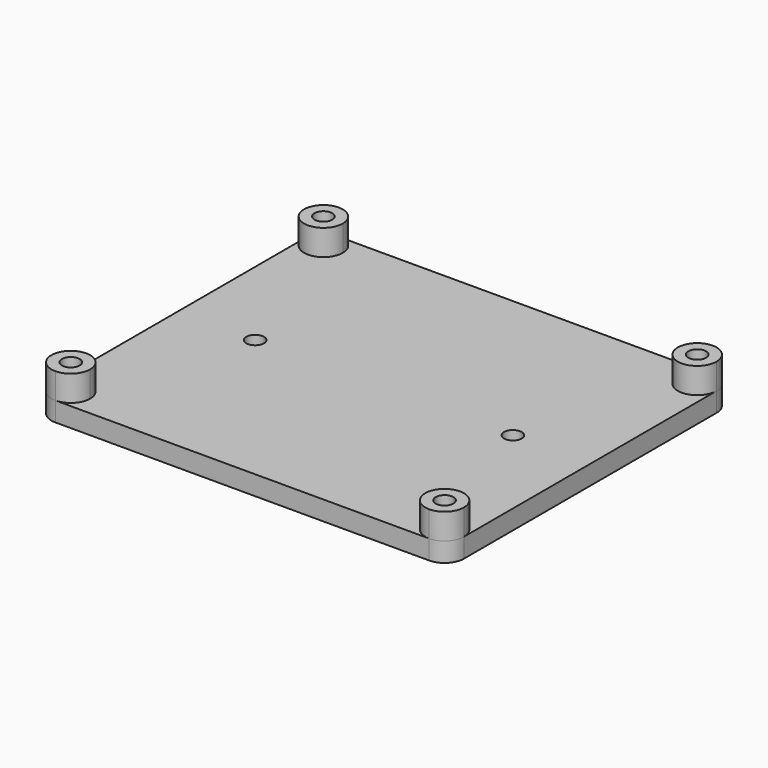
from build123d import *

# Parameters (mm, degrees)
F0_R     = 1.375
F1_DEPTH = 3
F2_DEPTH = 4


with BuildPart() as f1:
    # F0 (on Top) → F1 (new body)
    with BuildSketch(Plane.XY):
        with BuildLine():
            ThreePointArc((-29.799998, 24.5), (-30.678677, 26.62132), (-32.799998, 27.5))
            ThreePointArc((-32.799998, 27.5), (-34.921318, 26.62132), (-35.799998, 24.5))
            ThreePointArc((-35.799998, 24.5), (-32.799998, 21.5), (-29.799998, 24.5))
        make_face()
        with Locations((-32.799998, 24.5)):
            Circle(F0_R, mode=Mode.SUBTRACT)
        with BuildLine():
            Line((25.200002, 27.5), (-32.799998, 27.5))
            ThreePointArc((-32.799998, 27.5), (-30.678677, 26.62132), (-29.799998, 24.5))
            ThreePointArc((-29.799998, 24.5), (-32.799998, 21.5), (-35.799998, 24.5))
            Line((-35.799998, 24.5), (-35.799998, -24.5))
            ThreePointArc((-35.799998, -24.5), (-32.799998, -21.5), (-29.799998, -24.5))
            ThreePointArc((-29.799998, -24.5), (-30.678677, -26.62132), (-32.799998, -27.5))
            Line((-32.799998, -27.5), (25.200002, -27.5))
            ThreePointArc((25.200002, -27.5), (23.078682, -22.37868), (28.200002, -24.5))
            Line((28.200002, -24.5), (28.200002, 24.5))
            ThreePointArc((28.200002, 24.5), (23.078682, 22.37868), (25.200002, 27.5))
        make_face()
        with Locations((-23.799998, 0)):
            Circle(F0_R, mode=Mode.SUBTRACT)
        with Locations((16.200002, 0)):
            Circle(F0_R, mode=Mode.SUBTRACT)
        with BuildLine():
            ThreePointArc((-29.799998, -24.5), (-32.799998, -21.5), (-35.799998, -24.5))
            ThreePointArc((-35.799998, -24.5), (-34.921318, -26.62132), (-32.799998, -27.5))
            ThreePointArc((-32.799998, -27.5), (-30.678677, -26.62132), (-29.799998, -24.5))
        make_face()
        with Locations((-32.799998, -24.5)):
            Circle(F0_R, mode=Mode.SUBTRACT)
        with BuildLine():
            ThreePointArc((25.200002, -27.5), (27.321323, -26.62132), (28.200002, -24.5))
            ThreePointArc((28.200002, -24.5), (23.078682, -22.37868), (25.200002, -27.5))
        make_face()
        with Locations((25.200002, -24.5)):
            Circle(F0_R, mode=Mode.SUBTRACT)
        with BuildLine():
            ThreePointArc((28.200002, 24.5), (27.321323, 26.62132), (25.200002, 27.5))
            ThreePointArc((25.200002, 27.5), (23.078682, 22.37868), (28.200002, 24.5))
        make_face()
        with Locations((25.200002, 24.5)):
            Circle(F0_R, mode=Mode.SUBTRACT)
    extrude(amount=-F1_DEPTH)


with BuildPart() as f2:
    # F0 (on Top) → F2 (new body)
    with BuildSketch(Plane.XY):
        with BuildLine():
            ThreePointArc((-29.799998, 24.5), (-30.678677, 26.62132), (-32.799998, 27.5))
            ThreePointArc((-32.799998, 27.5), (-34.921318, 26.62132), (-35.799998, 24.5))
            ThreePointArc((-35.799998, 24.5), (-32.799998, 21.5), (-29.799998, 24.5))
        make_face()
        with Locations((-32.799998, 24.5)):
            Circle(F0_R, mode=Mode.SUBTRACT)
        with BuildLine():
            ThreePointArc((28.200002, 24.5), (27.321323, 26.62132), (25.200002, 27.5))
            ThreePointArc((25.200002, 27.5), (23.078682, 22.37868), (28.200002, 24.5))
        make_face()
        with Locations((25.200002, 24.5)):
            Circle(F0_R, mode=Mode.SUBTRACT)
        with BuildLine():
            ThreePointArc((-29.799998, -24.5), (-32.799998, -21.5), (-35.799998, -24.5))
            ThreePointArc((-35.799998, -24.5), (-34.921318, -26.62132), (-32.799998, -27.5))
            ThreePointArc((-32.799998, -27.5), (-30.678677, -26.62132), (-29.799998, -24.5))
        make_face()
        with Locations((-32.799998, -24.5)):
            Circle(F0_R, mode=Mode.SUBTRACT)
        with BuildLine():
            ThreePointArc((25.200002, -27.5), (27.321323, -26.62132), (28.200002, -24.5))
            ThreePointArc((28.200002, -24.5), (23.078682, -22.37868), (25.200002, -27.5))
        make_face()
        with Locations((25.200002, -24.5)):
            Circle(F0_R, mode=Mode.SUBTRACT)
    extrude(amount=F2_DEPTH)


solid = Compound([f1.part, f2.part])
